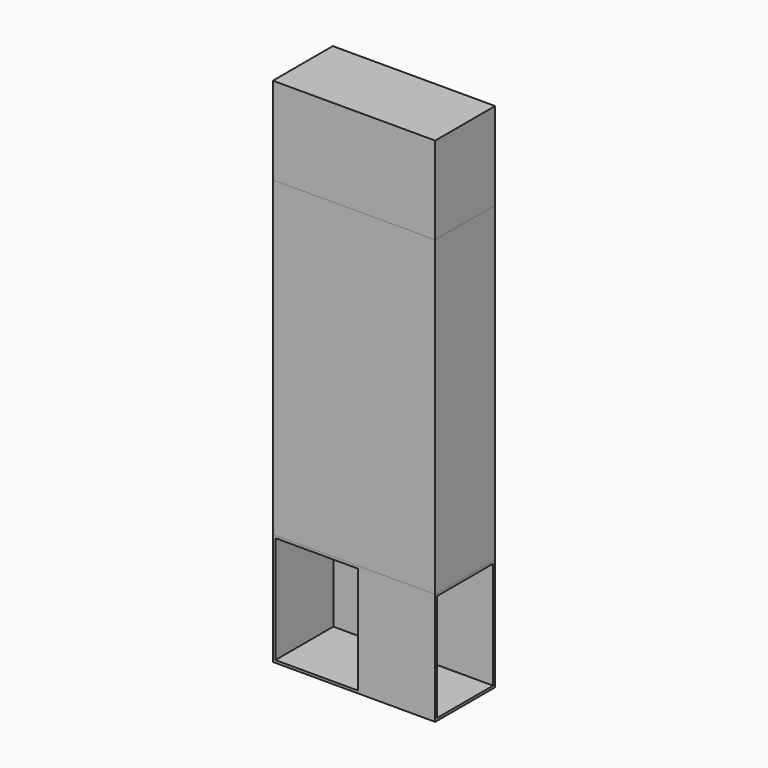
from build123d import *

# Parameters (mm, degrees)
F0_W      = 1300
F0_H      = 600
F1_DEPTH  = 900
F2_W      = 560
F2_H      = 860
F3_DEPTH  = 600
F4_W      = 660
F4_H      = 860
F5_DEPTH  = 580
F6_DEPTH  = 2500
F7_W      = 1260
F7_H      = 600
F8_DEPTH  = 580
F9_W      = 1260
F9_H      = 1840
F10_DEPTH = 580
F11_W     = 1300
F11_H     = 600
F12_DEPTH = 700
F13_W     = 1260
F13_H     = 660
F14_DEPTH = 580


with BuildPart() as f1:
    # F0 (on Top) → F1 (new body)
    with BuildSketch(Plane.XY):
        with Locations((650, 300)):
            Rectangle(F0_W, F0_H)
    extrude(amount=F1_DEPTH)

    # F2 (on face) → F3 (cut)
    with BuildSketch(Plane.YZ.offset(1300)):
        with Locations((300, 450)):
            Rectangle(F2_W, F2_H)
    extrude(amount=-F3_DEPTH, mode=Mode.SUBTRACT)

    # F4 (on face) → F5 (cut)
    with BuildSketch(Plane.XZ):
        with Locations((350, 450)):
            Rectangle(F4_W, F4_H)
    extrude(amount=-F5_DEPTH, mode=Mode.SUBTRACT)


with BuildPart() as f6:
    # F6 (new): a face of the model
    f6_faces = [f1.part.faces().sort_by_distance(p)[0] for p in [
        (650, 300, 900),
    ]]
    extrude(f6_faces, amount=F6_DEPTH)

    # F7 (on face) → F8 (cut)
    with BuildSketch(Plane(origin=(0, 600, 0), x_dir=(-1, 0, 0), z_dir=(0, 1, 0))):
        with Locations((-650, 3080)):
            Rectangle(F7_W, F7_H)
    extrude(amount=-F8_DEPTH, mode=Mode.SUBTRACT)

    # F9 (on face) → F10 (cut)
    with BuildSketch(Plane(origin=(0, 600, 0), x_dir=(-1, 0, 0), z_dir=(0, 1, 0))):
        with Locations((-650, 1840)):
            Rectangle(F9_W, F9_H)
    extrude(amount=-F10_DEPTH, mode=Mode.SUBTRACT)


with BuildPart() as f12:
    # F11 (on face) → F12 (new body)
    with BuildSketch(Plane.XY.offset(3400)):
        with Locations((650, 300)):
            Rectangle(F11_W, F11_H)
    extrude(amount=F12_DEPTH)

    # F13 (on face) → F14 (cut)
    with BuildSketch(Plane(origin=(0, 600, 0), x_dir=(-1, 0, 0), z_dir=(0, 1, 0))):
        with Locations((-650, 3750)):
            Rectangle(F13_W, F13_H)
    extrude(amount=-F14_DEPTH, mode=Mode.SUBTRACT)


solid = Compound([f1.part, f6.part, f12.part])
